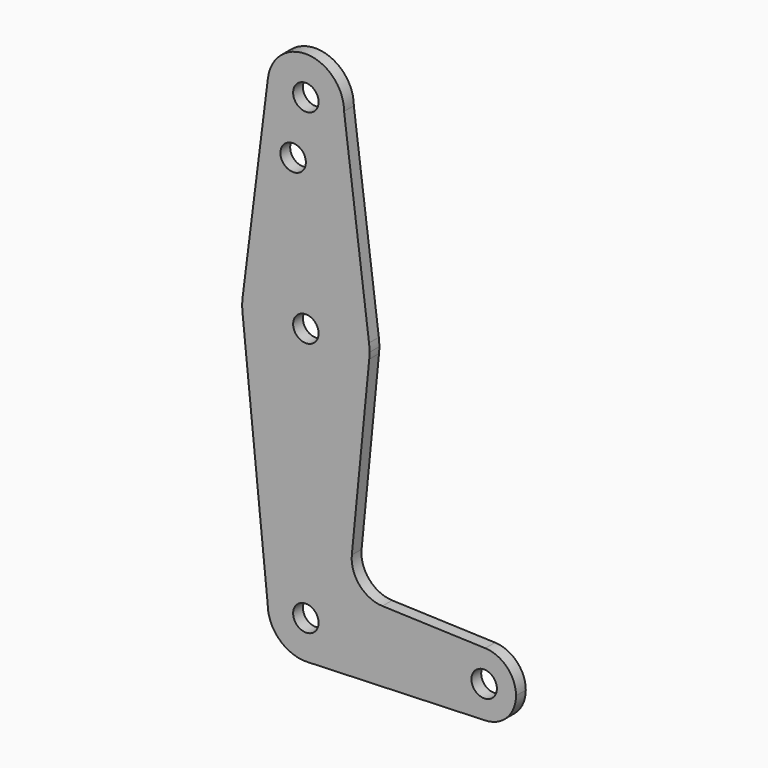
from build123d import *

# Parameters (mm, degrees)
F0_R     = 3.175
F1_DEPTH = 3.048


with BuildPart() as f1:
    # F0 (on Front) → F1 (new body)
    with BuildSketch(Plane.XZ):
        with BuildLine():
            ThreePointArc((0.340179, -9.518923), (6.854408, -6.613827), (9.525, 0))
            ThreePointArc((9.525, 0), (0, 9.525), (-9.525, 0))
            ThreePointArc((-9.525, 0), (-6.613827, -6.854408), (0.340179, -9.518923))
        make_face()
        Circle(F0_R, mode=Mode.SUBTRACT)
        with BuildLine():
            ThreePointArc((-9.525, 0), (0, 9.525), (9.525, 0))
            ThreePointArc((9.525, 0), (6.854408, -6.613827), (0.340179, -9.518923))
            Line((0.340179, -9.518923), (44.733482, -7.932436))
            ThreePointArc((44.733482, -7.932436), (36.5125, 0), (44.733482, 7.932436))
            Line((44.733482, 7.932436), (19.085814, 8.849009))
            ThreePointArc((19.085814, 8.849009), (13.386341, 11.559206), (11.457322, 17.568202))
            Line((11.457322, 17.568202), (15.799575, 61.954343))
            ThreePointArc((15.799575, 61.954343), (0.027115, 47.625023), (-15.794203, 61.90038))
            Line((-15.794203, 61.90038), (-9.525, 0))
        make_face()
        with BuildLine():
            Line((-15.794203, 65.09962), (-15.794203, 61.90038))
            ThreePointArc((-15.794203, 61.90038), (0.027115, 47.625023), (15.799575, 61.954343))
            ThreePointArc((15.799575, 61.954343), (15.856133, 62.726252), (15.875, 63.5))
            ThreePointArc((15.875, 63.5), (15.843082, 64.506168), (15.747457, 65.508289))
            ThreePointArc((15.747457, 65.508289), (0.180087, 79.373979), (-15.697842, 65.86503))
            Line((-15.697842, 65.86503), (-15.794203, 65.09962))
        make_face()
        with Locations((0, 63.5)):
            Circle(F0_R, mode=Mode.SUBTRACT)
        with BuildLine():
            ThreePointArc((-15.794203, 65.09962), (-15.875, 63.5), (-15.794203, 61.90038))
            Line((-15.794203, 61.90038), (-15.794203, 65.09962))
        make_face()
        with BuildLine():
            ThreePointArc((44.733482, 7.932436), (36.5125, 0), (44.733482, -7.932436))
            ThreePointArc((44.733482, -7.932436), (50.162007, -5.511523), (52.3875, 0))
            ThreePointArc((52.3875, 0), (50.162007, 5.511523), (44.733482, 7.932436))
        make_face()
        with Locations((44.45, 0)):
            Circle(F0_R, mode=Mode.SUBTRACT)
        with BuildLine():
            ThreePointArc((-15.697842, 65.86503), (-15.750673, 65.48291), (-15.794203, 65.09962))
            Line((-15.794203, 65.09962), (-15.697842, 65.86503))
        make_face()
        with BuildLine():
            Line((-9.450404, 115.489746), (-15.697842, 65.86503))
            ThreePointArc((-15.697842, 65.86503), (0.180087, 79.373979), (15.747457, 65.508289))
            Line((15.747457, 65.508289), (9.525, 114.3))
            ThreePointArc((9.525, 114.3), (-0.596041, 104.793667), (-9.450404, 115.489746))
        make_face()
        with Locations((-3.175, 100.0252)):
            Circle(F0_R, mode=Mode.SUBTRACT)
        with BuildLine():
            ThreePointArc((9.525, 114.3), (0.596041, 123.806333), (-9.450404, 115.489746))
            ThreePointArc((-9.450404, 115.489746), (-0.596041, 104.793667), (9.525, 114.3))
        make_face()
        with Locations((0, 114.3)):
            Circle(F0_R, mode=Mode.SUBTRACT)
    extrude(amount=F1_DEPTH)


solid = f1.part
